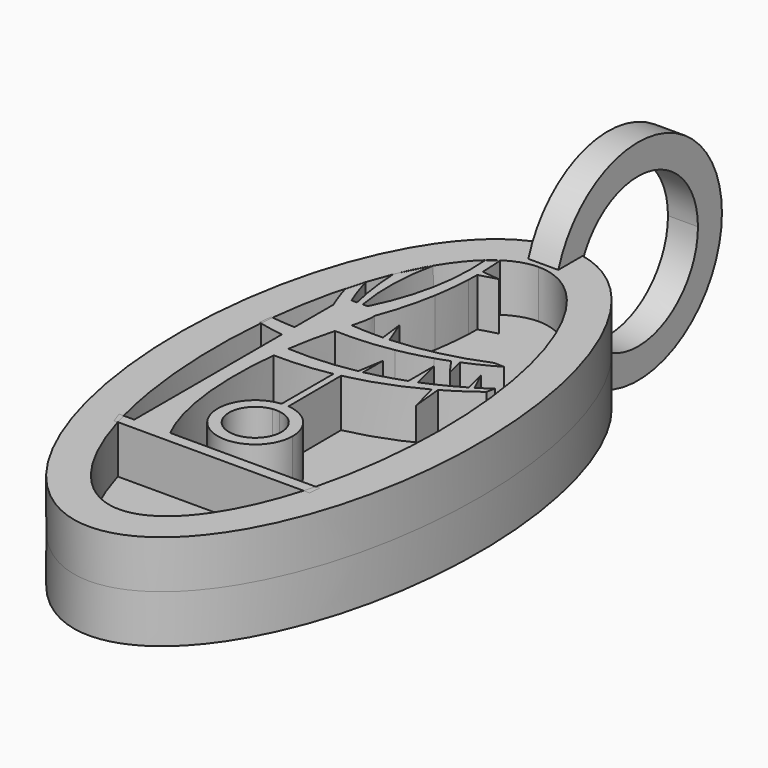
from build123d import *

# Parameters (mm, degrees)
F1_DEPTH = 4.064
F3_DEPTH = 4.064
F5_DEPTH = 4.064
F6_R     = 8.89
F6_R_2   = 6.35
F7_DEPTH = 1.27


with BuildPart() as f1:
    # F0 (on Top) → F1 (new body, symmetric)
    with BuildSketch(Plane.XY):
        with BuildLine():
            add(Edge.make_bspline(
                [(0, 25.4), (-21.9970452561, 25.4), (-10.9985226281, -12.7), (0, -50.8), (10.9985226281, -12.7), (21.9970452561, 25.4), (0, 25.4)],
                knots=[0, 0, 0, 2.0943951024, 2.0943951024, 4.1887902048, 4.1887902048, 6.2831853072, 6.2831853072, 6.2831853072], degree=2, weights=[1, 0.5, 1, 0.5, 1, 0.5, 1]))
        make_face()
    extrude(amount=F1_DEPTH, both=True)

    # F2 (on face) → F3 (cut)
    with BuildSketch(Plane.XY.offset(4.064)):
        with BuildLine():
            add(Edge.make_bspline(
                [(0, 22.225), (-16.4977839421, 22.225), (-8.248891971, -11.1125), (0, -44.45), (8.248891971, -11.1125), (16.4977839421, 22.225), (0, 22.225)],
                knots=[0, 0, 0, 2.0943951024, 2.0943951024, 4.1887902048, 4.1887902048, 6.2831853072, 6.2831853072, 6.2831853072], degree=2, weights=[1, 0.5, 1, 0.5, 1, 0.5, 1]))
        make_face()
    extrude(amount=-F3_DEPTH, mode=Mode.SUBTRACT)

    # F4 (on face) → F5 (join)
    with BuildSketch(Plane.XY.offset(4.064)):
        with BuildLine():
            add(Edge.make_bspline(
                [(-6.6799242, 10.7568446984), (-6.9272605797, 10.7791726332), (-7.1273651028, 10.8366517547), (-7.2366114873, 10.9651564753)],
                knots=[0.9540675759, 0.9540675759, 0.9540675759, 0.9540675759, 1, 1, 1, 1], degree=3))
            Line((-7.2366114873, 10.9651564753), (-7.2366114873, 9.5211248845))
            Line((-7.2366114873, 9.5211248845), (-7.2366114873, 5.4053226432))
            Line((-7.2366114873, 5.4053226432), (-7.2366114873, 4.06367999))
            Line((-7.2366114873, 4.06367999), (-7.2366114873, -11.5660796586))
            Line((-7.2366114873, -11.5660796586), (-4.1926931035, -11.5660796586))
            add(Edge.make_bspline(
                [(-4.1926931035, -11.5660796586), (-4.8961229145, -10.2391698548), (-6.1121908073, -6.3307752516), (-6.0409714159, -0.94641142), (-5.7882470669, 1.3974157567)],
                knots=[0, 0, 0, 0, 0.2587041294, 0.4663496526, 0.4663496526, 0.4663496526, 0.4663496526], degree=3))
            add(Edge.make_bspline(
                [(-5.7882470669, 1.3974157567), (-5.7398084523, 1.8466472692), (-5.6832507379, 2.2939097665), (-5.6188147004, 2.7367655436)],
                knots=[0.4663496526, 0.4663496526, 0.4663496526, 0.4663496526, 0.5061481981, 0.5061481981, 0.5061481981, 0.5061481981], degree=3))
            add(Edge.make_bspline(
                [(-5.6188147004, 2.7367655436), (-5.4567852143, 3.8503612381), (-5.1959247723, 5.1873031722), (-4.8653348243, 6.4232249843), (-4.8028979192, 6.6506087777)],
                knots=[0.5061481981, 0.5061481981, 0.5061481981, 0.5061481981, 0.6062247719, 0.6293799214, 0.6293799214, 0.6293799214, 0.6293799214], degree=3))
            add(Edge.make_bspline(
                [(-4.8028979192, 6.6506087777), (-4.6751419009, 7.1158728395), (-4.5460490486, 7.5608519632), (-4.4339744763, 7.9745945806)],
                knots=[0.6293799214, 0.6293799214, 0.6293799214, 0.6293799214, 0.6767591067, 0.6767591067, 0.6767591067, 0.6767591067], degree=3))
            add(Edge.make_bspline(
                [(-4.4339744763, 7.9745945806), (-4.212277315, 8.7930278958), (-4.057172106, 9.4892338211), (-4.1107333729, 9.9784436732)],
                knots=[0.6767591067, 0.6767591067, 0.6767591067, 0.6767591067, 0.7704809088, 0.7704809088, 0.7704809088, 0.7704809088], degree=3))
            add(Edge.make_bspline(
                [(-4.1107333729, 9.9784436732), (-4.1442327286, 10.2844150543), (-4.3627613808, 10.7115081453), (-5.0006402213, 10.7721223559), (-5.3306654446, 10.7727760869)],
                knots=[0.7704809088, 0.7704809088, 0.7704809088, 0.7704809088, 0.8290982672, 0.8817480457, 0.8817480457, 0.8817480457, 0.8817480457], degree=3))
            add(Edge.make_bspline(
                [(-5.3306654446, 10.7727760869), (-5.4665806002, 10.7730453147), (-5.6072771982, 10.7685608365), (-5.7481659857, 10.76309645)],
                knots=[0.8817480457, 0.8817480457, 0.8817480457, 0.8817480457, 0.9034309424, 0.9034309424, 0.9034309424, 0.9034309424], degree=3))
            add(Edge.make_bspline(
                [(-5.7481659857, 10.76309645), (-5.9076633403, 10.7569103282), (-6.0674070058, 10.7494683512), (-6.2207385318, 10.7462458423)],
                knots=[0.9034309424, 0.9034309424, 0.9034309424, 0.9034309424, 0.9279777125, 0.9279777125, 0.9279777125, 0.9279777125], degree=3))
            add(Edge.make_bspline(
                [(-6.2207385318, 10.7462458423), (-6.3837089986, 10.7428207556), (-6.5394358086, 10.7441623116), (-6.6799242, 10.7568446984)],
                knots=[0.9279777125, 0.9279777125, 0.9279777125, 0.9279777125, 0.9540675759, 0.9540675759, 0.9540675759, 0.9540675759], degree=3))
        make_face()
        with BuildLine():
            Line((-7.2366114873, 9.5211248845), (-7.2366114873, 10.9651564753))
            add(Edge.make_bspline(
                [(-6.6799242, 10.7568446984), (-6.9272605797, 10.7791726332), (-7.1273651028, 10.8366517547), (-7.2366114873, 10.9651564753)],
                knots=[0.9540675759, 0.9540675759, 0.9540675759, 0.9540675759, 1, 1, 1, 1], degree=3))
            ThreePointArc((-6.6799242, 10.7568446984), (-7.1750394452, 12.0479599951), (-7.5732837431, 13.3721651509))
            Line((-7.5732837431, 13.3721651509), (-8.036644198, 11.7749944329))
            ThreePointArc((-8.036644198, 11.7749944329), (-7.662964532, 10.6387111971), (-7.2366114873, 9.5211248845))
        make_face()
        with BuildLine():
            Line((-7.2366114873, 4.06367999), (-7.2366114873, 5.4053226432))
            ThreePointArc((-7.2366114873, 5.4053226432), (-8.298088893, 5.472229094), (-9.3552050964, 5.5893447998))
            Line((-9.3552050964, 5.5893447998), (-9.479381144, 4.4957995415))
            ThreePointArc((-9.479381144, 4.4957995415), (-8.3635465134, 4.2509333506), (-7.2366114873, 4.06367999))
        make_face()
        with BuildLine():
            ThreePointArc((-6.8747145124, 15.4434042051), (-6.6567379593, 13.079647579), (-6.2207385318, 10.7462458423))
            add(Edge.make_bspline(
                [(-5.7481659857, 10.76309645), (-5.9076633403, 10.7569103282), (-6.0674070058, 10.7494683512), (-6.2207385318, 10.7462458423)],
                knots=[0.9034309424, 0.9034309424, 0.9034309424, 0.9034309424, 0.9279777125, 0.9279777125, 0.9279777125, 0.9279777125], degree=3))
            ThreePointArc((-5.7481659857, 10.76309645), (-6.0130737268, 14.4065553025), (-5.5637788028, 18.0318970233))
            Line((-5.5637788028, 18.0318970233), (-6.8747145124, 15.4434042051))
        make_face()
        Polygon((-4.1926931035, -11.5660796586), (-7.2366114873, -11.5660796586), (-8.5204751092, -11.5660796586), (-8.1880697046, -12.5181842442), (8.3705116448, -12.5181842442), (8.4732899342, -11.5660796586), align=None)
        with BuildLine():
            ThreePointArc((-3.3731488511, 20.7758601755), (-3.6564030639, 15.6382140284), (-5.3306654446, 10.7727760869))
            add(Edge.make_bspline(
                [(-4.1107333729, 9.9784436732), (-4.1442327286, 10.2844150543), (-4.3627613808, 10.7115081453), (-5.0006402213, 10.7721223559), (-5.3306654446, 10.7727760869)],
                knots=[0.7704809088, 0.7704809088, 0.7704809088, 0.7704809088, 0.8290982672, 0.8817480457, 0.8817480457, 0.8817480457, 0.8817480457], degree=3))
            ThreePointArc((-4.1107333729, 9.9784436732), (-3.3500804949, 12.3417979986), (-2.8219539576, 14.7677243843))
            Line((-2.8219539576, 14.7677243843), (-2.4932115753, 17.9210586542))
            ThreePointArc((-2.4932115753, 17.9210586542), (-2.4784651126, 18.3644580985), (-2.4714051241, 18.8080465135))
            ThreePointArc((-2.4714051241, 18.8080465135), (-2.4709465584, 19.0982567397), (-2.4737781061, 19.3884535143))
            ThreePointArc((-2.4737781061, 19.3884535143), (-2.5085046576, 20.3836990578), (-2.5819155853, 21.3768407702))
            Line((-2.5819155853, 21.3768407702), (-3.3731488511, 20.7758601755))
        make_face()
        with BuildLine():
            add(Edge.make_bspline(
                [(-5.7882470669, 1.3974157567), (-5.7398084523, 1.8466472692), (-5.6832507379, 2.2939097665), (-5.6188147004, 2.7367655436)],
                knots=[0.4663496526, 0.4663496526, 0.4663496526, 0.4663496526, 0.5061481981, 0.5061481981, 0.5061481981, 0.5061481981], degree=3))
            ThreePointArc((-5.7882470669, 1.3974157567), (-3.4054231189, 1.4641655684), (-1.0434261158, 1.785530878))
            ThreePointArc((-1.0434261158, 1.785530878), (-0.7642636141, 1.8407359447), (-0.4858302201, 1.8995079347))
            ThreePointArc((-0.4858302201, 1.8995079347), (2.5577226089, 2.7938171828), (5.443103731, 4.1119896425))
            ThreePointArc((5.443103731, 4.1119896425), (5.6179408234, 4.2085026368), (5.7919043412, 4.3065814898))
            ThreePointArc((5.7919043412, 4.3065814898), (7.1634359057, 5.1552727282), (8.4698618869, 6.1011198649))
            Line((8.4698618869, 6.1011198649), (8.629064741, 6.8129874041))
            ThreePointArc((8.629064741, 6.8129874041), (8.0682124634, 6.4293319091), (7.4960036279, 6.0628297061))
            ThreePointArc((7.4960036279, 6.0628297061), (7.3261002307, 5.9586392338), (7.1552783732, 5.8559615251))
            ThreePointArc((7.1552783732, 5.8559615251), (5.6472321529, 5.0350160414), (4.0808440122, 4.3317500303))
            ThreePointArc((4.0808440122, 4.3317500303), (3.7722835262, 4.2098108772), (3.4619543324, 4.092445967))
            ThreePointArc((3.4619543324, 4.092445967), (1.9204398057, 3.5849930417), (0.3462878394, 3.1902512343))
            ThreePointArc((0.3462878394, 3.1902512343), (0.1732832769, 3.1541713863), (0, 3.1194548188))
            ThreePointArc((0, 3.1194548188), (-2.7973570616, 2.7511824668), (-5.6188147004, 2.7367655436))
        make_face()
        with BuildLine():
            ThreePointArc((-1.7392292224, 7.8987217149), (-3.08774197, 7.8961649546), (-4.4339744763, 7.9745945806))
            add(Edge.make_bspline(
                [(-4.8028979192, 6.6506087777), (-4.6751419009, 7.1158728395), (-4.5460490486, 7.5608519632), (-4.4339744763, 7.9745945806)],
                knots=[0.6293799214, 0.6293799214, 0.6293799214, 0.6293799214, 0.6767591067, 0.6767591067, 0.6767591067, 0.6767591067], degree=3))
            ThreePointArc((-4.8028979192, 6.6506087777), (-2.3919808056, 6.6946672508), (0, 6.999446357))
            Line((0, 6.999446357), (2.7696962934, 7.6924888145))
            ThreePointArc((2.7696962934, 7.6924888145), (3.3339403189, 7.8812204452), (3.8929345923, 8.0849760612))
            ThreePointArc((3.8929345923, 8.0849760612), (4.1714669914, 8.1928888652), (4.4485251158, 8.3045323437))
            ThreePointArc((4.4485251158, 8.3045323437), (5.8154047473, 8.9206581692), (7.1376715787, 9.627468884))
            Line((7.1376715787, 9.627468884), (6.2998910435, 9.6655497327))
            ThreePointArc((6.2998910435, 9.6655497327), (2.6266821357, 8.4703288781), (-1.1970619952, 7.9226087004))
            ThreePointArc((-1.1970619952, 7.9226087004), (-1.4680734127, 7.9090265587), (-1.7392292224, 7.8987217149))
        make_face()
        with BuildLine():
            Line((-2.4932115753, 17.9210586542), (-2.8219539576, 14.7677243843))
            ThreePointArc((-2.8219539576, 14.7677243843), (-2.6087172677, 16.3392971781), (-2.4932115753, 17.9210586542))
        make_face()
        with BuildLine():
            ThreePointArc((-0.4858302201, 1.8995079347), (-0.7642636141, 1.8407359447), (-1.0434261158, 1.785530878))
            Line((-1.0434261158, 1.785530878), (-1.0434261158, -3.7036528732))
            ThreePointArc((-1.0434261158, -3.7036528732), (-0.7514830934, -3.6899934458), (-0.4595209146, -3.7032371008))
            Line((-0.4595209146, -3.7032371008), (-0.4858302201, 1.8995079347))
        make_face()
        with BuildLine():
            Line((-1.9933453295, 9.9739097059), (-1.7392292224, 7.8987217149))
            ThreePointArc((-1.7392292224, 7.8987217149), (-1.4680734127, 7.9090265587), (-1.1970619952, 7.9226087004))
            Line((-1.1970619952, 7.9226087004), (-1.9933453295, 9.9739097059))
        make_face()
        with BuildLine():
            Line((-0.9797673363, 19.2228439583), (-2.4737781061, 19.3884535143))
            ThreePointArc((-2.4737781061, 19.3884535143), (-2.4709465584, 19.0982567397), (-2.4714051241, 18.8080465135))
            Line((-2.4714051241, 18.8080465135), (-0.9797673363, 19.2228439583))
        make_face()
        with BuildLine():
            Line((0, 3.1902512343), (0, 3.1194548188))
            ThreePointArc((0, 3.1194548188), (0.1732832769, 3.1541713863), (0.3462878394, 3.1902512343))
            Line((0.3462878394, 3.1902512343), (0.3462878394, 5.3002315518))
            Line((0.3462878394, 5.3002315518), (0, 3.1902512343))
        make_face()
        with BuildLine():
            ThreePointArc((-0.4595209146, -3.7032371008), (-0.7514830934, -3.6899934458), (-1.0434261158, -3.7036528732))
            Line((-1.0434261158, -3.7036528732), (-1.0434261158, -4.6620513396))
            ThreePointArc((-1.0434261158, -4.6620513396), (-0.7492223208, -4.6424926409), (-0.4550185257, -4.6620513396))
            Line((-0.4550185257, -4.6620513396), (-0.4595209146, -3.7032371008))
        make_face()
        with BuildLine():
            Line((-1.0434261158, -4.6620513396), (-1.0434261158, -3.7036528732))
            ThreePointArc((-1.0434261158, -3.7036528732), (-2.8877414288, -9.2117693718), (2.4257776792, -6.8649926409))
            ThreePointArc((2.4257776792, -6.8649926409), (1.5960310733, -4.7248030423), (-0.4595209146, -3.7032371008))
            Line((-0.4595209146, -3.7032371008), (-0.4550185257, -4.6620513396))
            ThreePointArc((-0.4550185257, -4.6620513396), (0.9231075188, -5.4011555059), (1.4732776792, -6.8649926409))
            ThreePointArc((1.4732776792, -6.8649926409), (-2.2130594558, -8.5373224804), (-1.0434261158, -4.6620513396))
        make_face()
        with BuildLine():
            Line((2.7696962934, 7.6924888145), (0, 6.999446357))
            ThreePointArc((0, 6.999446357), (1.3959794374, 7.3014821516), (2.7696962934, 7.6924888145))
        make_face()
        with BuildLine():
            ThreePointArc((5.7919043412, 4.3065814898), (5.6179408234, 4.2085026368), (5.443103731, 4.1119896425))
            Line((5.443103731, 4.1119896425), (6.0578412376, 1.6552336747))
            Line((6.0578412376, 1.6552336747), (5.7919043412, 4.3065814898))
        make_face()
        with BuildLine():
            Line((3.4619543324, 6.8050998715), (3.4619543324, 4.092445967))
            ThreePointArc((3.4619543324, 4.092445967), (3.7722835262, 4.2098108772), (4.0808440122, 4.3317500303))
            Line((4.0808440122, 4.3317500303), (3.4619543324, 6.8050998715))
        make_face()
        with BuildLine():
            ThreePointArc((4.4485251158, 8.3045323437), (4.1714669914, 8.1928888652), (3.8929345923, 8.0849760612))
            Line((3.8929345923, 8.0849760612), (4.8165079206, 6.7920978181))
            Line((4.8165079206, 6.7920978181), (4.4485251158, 8.3045323437))
        make_face()
        with BuildLine():
            Line((6.7160886386, 7.7145051693), (7.1552783732, 5.8559615251))
            ThreePointArc((7.1552783732, 5.8559615251), (7.3261002307, 5.9586392338), (7.4960036279, 6.0628297061))
            Line((7.4960036279, 6.0628297061), (6.7160886386, 7.7145051693))
        make_face()
    extrude(amount=-F5_DEPTH)

    # F6 (on Right) → F7 (join, symmetric)
    with BuildSketch(Plane.YZ):
        with Locations((31.1503745615, 1.2700001244)):
            Circle(F6_R)
        with Locations((31.1503745615, 1.2700001244)):
            Circle(F6_R_2, mode=Mode.SUBTRACT)
    extrude(amount=F7_DEPTH, both=True)


solid = f1.part
